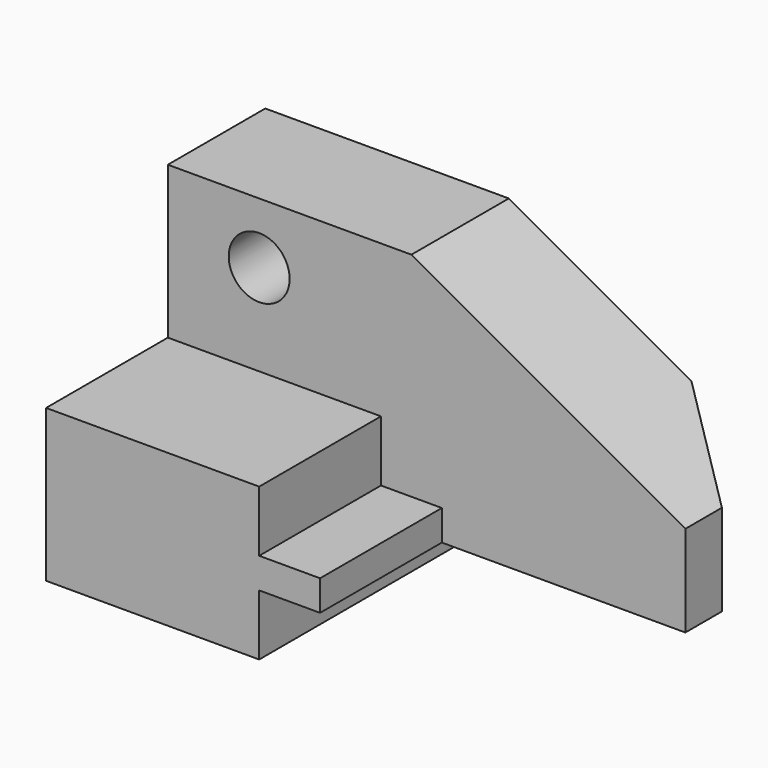
from build123d import *

# Parameters (mm, degrees)
F0_W      = 107.95
F0_H      = 63.5
F1_DEPTH  = 57.15
F3_DEPTH  = 31.75
F4_W      = 63.5
F4_H      = 12.7
F5_DEPTH  = 25.401
F7_DEPTH  = 25.401
F9_DEPTH  = 25.401
F11_DEPTH = 50.801


with BuildPart() as f1:
    # F0 (on Front) → F1 (new body)
    with BuildSketch(Plane.XZ):
        with Locations((53.975, 31.75)):
            Rectangle(F0_W, F0_H)
    extrude(amount=-F1_DEPTH)

    # F2 (on face) → F3 (cut)
    with BuildSketch(Plane.XZ):
        Polygon((0, 63.5), (0, 31.75), (44.45, 31.75), (44.45, 19.05), (57.15, 19.05), (57.15, 12.7), (44.45, 12.7), (44.45, 0), (107.95, 0), (107.95, 63.5), align=None)
    extrude(amount=-F3_DEPTH, mode=Mode.SUBTRACT)

    # F4 (on face) → F5 (cut, through all)
    with BuildSketch(Plane.XZ.offset(-31.75)):
        with Locations((76.2, 6.35)):
            Rectangle(F4_W, F4_H)
    extrude(amount=-F5_DEPTH, mode=Mode.SUBTRACT)

    # F6 (on face) → F7 (cut, through all)
    with BuildSketch(Plane.XZ.offset(-31.75)):
        Polygon((50.8, 63.5), (107.95, 31.75), (107.95, 63.5), align=None)
    extrude(amount=-F7_DEPTH, mode=Mode.SUBTRACT)

    # F8 (on face) → F9 (cut, through all)
    with BuildSketch(Plane.XZ.offset(-31.75)):
        with BuildLine():
            ThreePointArc((12.7, 50.8), (19.05, 44.45), (25.4, 50.8))
            ThreePointArc((25.4, 50.8), (19.05, 57.15), (12.7, 50.8))
        make_face()
    extrude(amount=-F9_DEPTH, mode=Mode.SUBTRACT)

    # F10 (on face) → F11 (cut, through all)
    with BuildSketch(Plane(origin=(0, 0, 12.7), x_dir=(1, 0, 0), z_dir=(0, 0, -1))):
        Polygon((107.95, -57.15), (107.95, -41.275), (88.9, -57.15), align=None)
    extrude(amount=-F11_DEPTH, mode=Mode.SUBTRACT)


solid = f1.part
